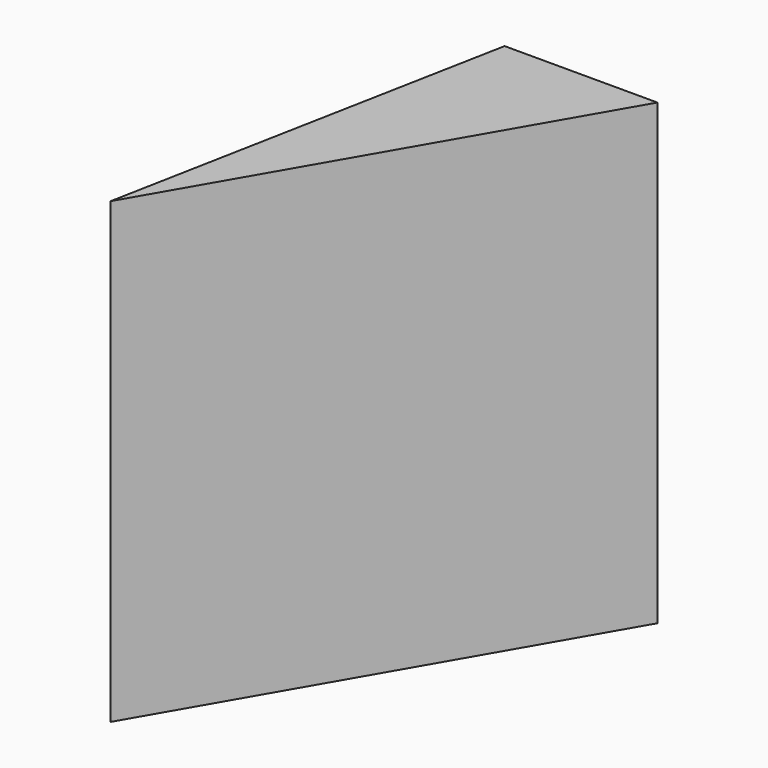
from build123d import *

# Parameters (mm, degrees)
F1_DEPTH  = 40
F4_DEPTH  = 10
F6_DEPTH  = 20
F8_DEPTH  = 5
F10_DEPTH = 5


with BuildPart() as f1:
    # F0 (on Top) → F1 (new body)
    with BuildSketch(Plane.XY):
        Polygon((20, 11.547005), (-20, 11.547005), (0, -23.094011), align=None)
    extrude(amount=F1_DEPTH)

    # F3 (on face) → F4 (cut)
    with BuildSketch(Plane.XY.offset(40)):
        Polygon((0, -23.094011), (6.666667, 11.547005), (-20, 11.547005), align=None)
    extrude(amount=-F4_DEPTH, mode=Mode.SUBTRACT)

    # F5 (on face) → F6 (cut)
    with BuildSketch(Plane.XY.offset(40)):
        Polygon((0, -23.094011), (-6.666667, 11.547005), (-20, 11.547005), align=None)
    extrude(amount=-F6_DEPTH, mode=Mode.SUBTRACT)

    # F7 (on face) → F8 (join)
    with BuildSketch(Plane.XY.offset(30)):
        Polygon((0, 11.547005), (0, -23.094011), (6.666667, 11.547005), align=None)
    extrude(amount=F8_DEPTH)

    # F9 (on face) → F10 (join)
    with BuildSketch(Plane.XY.offset(20)):
        Polygon((-6.666667, 11.547005), (-13.333333, 11.547005), (0, -23.094011), align=None)
    extrude(amount=F10_DEPTH)


solid = f1.part
